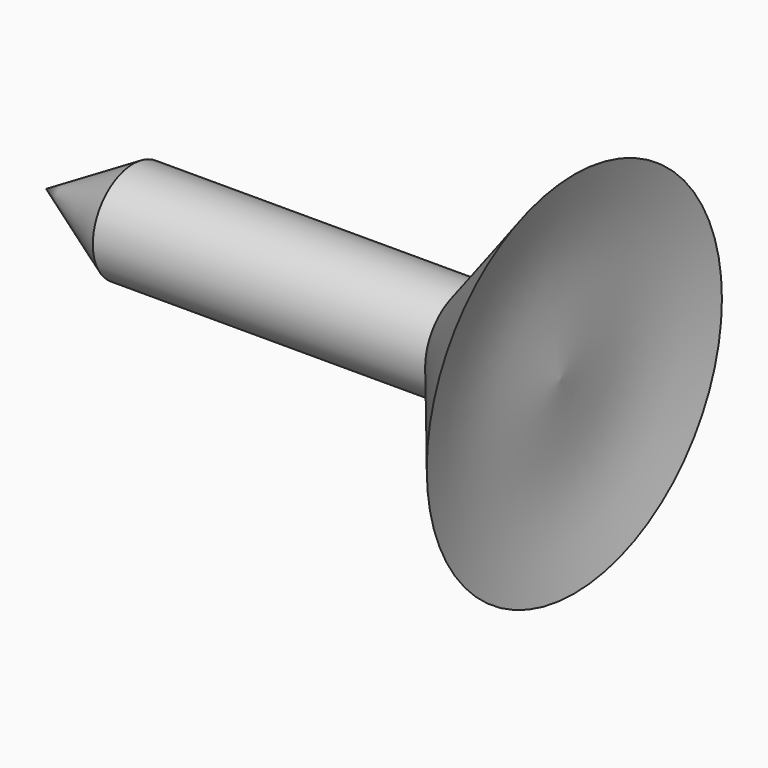
from build123d import *


with BuildPart() as f1:
    # F0 (on Front) → F1 (revolve)
    with BuildSketch(Plane.XZ):
        with BuildLine():
            Line((-39.2854847014, 12.6634538174), (-61.1587241292, 0))
            Line((-61.1587241292, 0), (68.0660605431, 0))
            add(Edge.make_bspline(
                [(71.5197324753, 46.3367253542), (69.6691113575, 39.4000084157), (65.8313963848, 25.0150312852), (67.3037200873, 8.533707529), (68.0660605431, 0)],
                knots=[0, 0, 0, 0, 0.4822195319, 1, 1, 1, 1], degree=3))
            Line((71.5197324753, 46.3367253542), (44.1781841218, 12.6634538174))
            Line((44.1781841218, 12.6634538174), (-39.2854847014, 12.6634538174))
        make_face()
    revolve(axis=Axis((3.4536682069, 0, 0), (1, 0, 0)))


solid = f1.part
